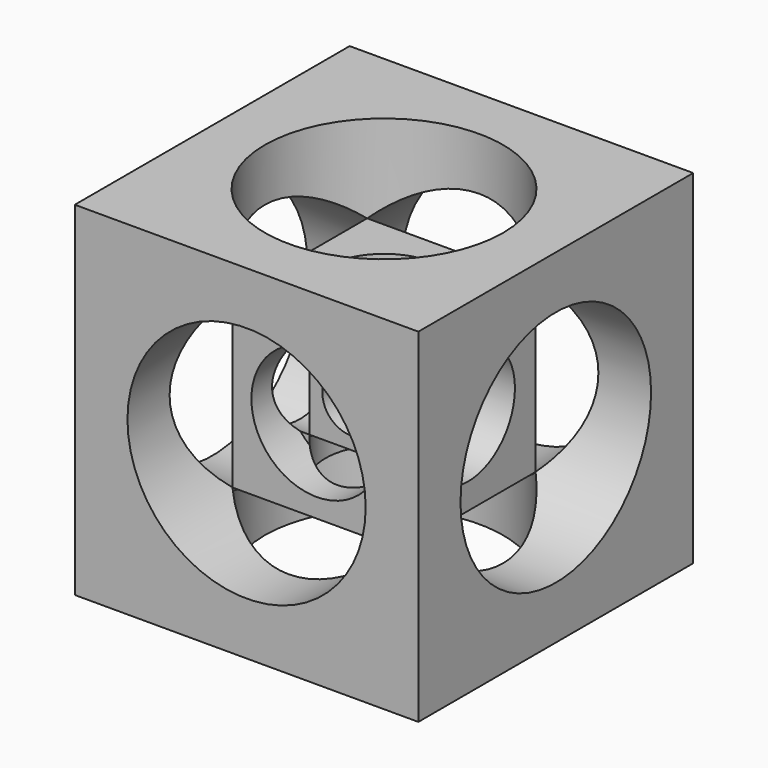
from build123d import *

# Parameters (mm, degrees)
F0_W          = 76.2
F0_H          = 76.2
F1_DEPTH      = 38.1
F1_DEPTH_BACK = 38.1
F2_R          = 6.35
F3_DEPTH      = 76.201
F4_R          = 6.35
F5_DEPTH      = 76.201
F6_R          = 6.35
F7_DEPTH      = 76.201
F9_R          = 12.95019
F8_R          = 26.416
F8_R_2        = 6.35
F10_DEPTH     = 19.42211
F11_DEPTH     = 28.9424491
F12_R         = 26.416
F12_R_2       = 6.35
F14_DEPTH     = 19.42211
F13_R         = 12.95019
F15_DEPTH     = 28.9424491
F16_R         = 26.416
F16_R_2       = 6.35
F18_DEPTH     = 19.42211
F17_R         = 12.95019
F19_DEPTH     = 28.9424491
F20_R         = 26.416
F20_R_2       = 6.35
F22_DEPTH     = 19.42211
F21_R         = 12.95019
F23_DEPTH     = 28.9424491
F24_R         = 26.416
F24_R_2       = 6.35
F26_DEPTH     = 19.42211
F25_R         = 14.47122455
F27_DEPTH     = 28.9424491
F28_R         = 26.416
F28_R_2       = 6.35
F30_DEPTH     = 19.42211
F29_R         = 12.95019
F31_DEPTH     = 28.9424491


with BuildPart() as f1:
    # F0 (on Front) → F1 (new body, two sides)
    with BuildSketch(Plane.XZ) as f1_sk:
        Rectangle(F0_W, F0_H)
    extrude(amount=F1_DEPTH)
    extrude(f1_sk.sketch, amount=-F1_DEPTH_BACK)

    # F2 (on face) → F3 (cut, through all)
    with BuildSketch(Plane.XZ.offset(38.1)):
        Circle(F2_R)
    extrude(amount=-F3_DEPTH, mode=Mode.SUBTRACT)

    # F4 (on face) → F5 (cut, through all)
    with BuildSketch(Plane.XY.offset(38.1)):
        Circle(F4_R)
    extrude(amount=-F5_DEPTH, mode=Mode.SUBTRACT)

    # F6 (on face) → F7 (cut, through all)
    with BuildSketch(Plane.YZ.offset(38.1)):
        Circle(F6_R)
    extrude(amount=-F7_DEPTH, mode=Mode.SUBTRACT)

    # F9 (on face) + F8 (on face) → F10 (cut)
    with BuildSketch(Plane(origin=(-38.1, 0, 0), x_dir=(0, -1, 0), z_dir=(-1, 0, 0))):
        Circle(F9_R)
    with BuildSketch(Plane(origin=(-38.1, 0, 0), x_dir=(0, -1, 0), z_dir=(-1, 0, 0))):
        Circle(F8_R)
        Circle(F8_R_2, mode=Mode.SUBTRACT)
    extrude(amount=-F10_DEPTH, mode=Mode.SUBTRACT)

    # F9 (on face) → F11 (cut)
    with BuildSketch(Plane(origin=(-38.1, 0, 0), x_dir=(0, -1, 0), z_dir=(-1, 0, 0))):
        Circle(F9_R)
    extrude(amount=-F11_DEPTH, mode=Mode.SUBTRACT)

    # F12 (on face) → F14 (cut)
    with BuildSketch(Plane.XY.offset(38.1)):
        Circle(F12_R)
        Circle(F12_R_2, mode=Mode.SUBTRACT)
    extrude(amount=-F14_DEPTH, mode=Mode.SUBTRACT)

    # F13 (on face) → F15 (cut)
    with BuildSketch(Plane.XY.offset(38.1)):
        Circle(F13_R)
    extrude(amount=-F15_DEPTH, mode=Mode.SUBTRACT)

    # F16 (on face) → F18 (cut)
    with BuildSketch(Plane(origin=(0, 38.1, 0), x_dir=(-1, 0, 0), z_dir=(0, 1, 0))):
        Circle(F16_R)
        Circle(F16_R_2, mode=Mode.SUBTRACT)
    extrude(amount=-F18_DEPTH, mode=Mode.SUBTRACT)

    # F17 (on face) → F19 (cut)
    with BuildSketch(Plane(origin=(0, 38.1, 0), x_dir=(-1, 0, 0), z_dir=(0, 1, 0))):
        Circle(F17_R)
    extrude(amount=-F19_DEPTH, mode=Mode.SUBTRACT)

    # F20 (on face) → F22 (cut)
    with BuildSketch(Plane.YZ.offset(38.1)):
        Circle(F20_R)
        Circle(F20_R_2, mode=Mode.SUBTRACT)
    extrude(amount=-F22_DEPTH, mode=Mode.SUBTRACT)

    # F21 (on face) → F23 (cut)
    with BuildSketch(Plane.YZ.offset(38.1)):
        Circle(F21_R)
    extrude(amount=-F23_DEPTH, mode=Mode.SUBTRACT)

    # F24 (on face) → F26 (cut)
    with BuildSketch(Plane.XZ.offset(38.1)):
        Circle(F24_R)
        Circle(F24_R_2, mode=Mode.SUBTRACT)
    extrude(amount=-F26_DEPTH, mode=Mode.SUBTRACT)

    # F25 (on face) → F27 (cut)
    with BuildSketch(Plane.XZ.offset(38.1)):
        Circle(F25_R)
    extrude(amount=-F27_DEPTH, mode=Mode.SUBTRACT)

    # F28 (on face) → F30 (cut)
    with BuildSketch(Plane(origin=(0, 0, -38.1), x_dir=(1, 0, 0), z_dir=(0, 0, -1))):
        Circle(F28_R)
        Circle(F28_R_2, mode=Mode.SUBTRACT)
    extrude(amount=-F30_DEPTH, mode=Mode.SUBTRACT)

    # F29 (on face) → F31 (cut)
    with BuildSketch(Plane(origin=(0, 0, -38.1), x_dir=(1, 0, 0), z_dir=(0, 0, -1))):
        Circle(F29_R)
    extrude(amount=-F31_DEPTH, mode=Mode.SUBTRACT)


solid = f1.part
